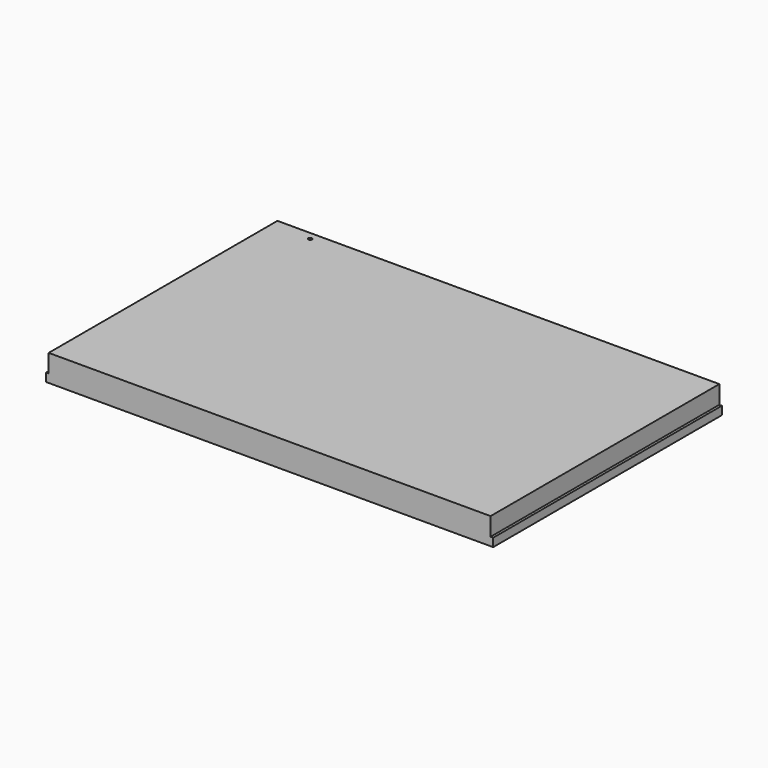
from build123d import *

# Parameters (mm, degrees)
F0_W     = 86
F0_H     = 55
F0_R     = 0.35
F1_DEPTH = 1.6
F2_W     = 85
F2_H     = 55
F2_R     = 0.35
F3_DEPTH = 5.1


with BuildPart() as f1:
    # F0 (on Top) → F1 (new body)
    with BuildSketch(Plane.XY):
        Rectangle(F0_W, F0_H)
        with Locations((-35, 26)):
            Circle(F0_R, mode=Mode.SUBTRACT)
    extrude(amount=F1_DEPTH)

    # F2 (on face) → F3 (join)
    with BuildSketch(Plane(origin=(0, 0, 0), x_dir=(1, 0, 0), z_dir=(0, 0, -1))):
        Rectangle(F2_W, F2_H)
        with Locations((-35, -26)):
            Circle(F2_R, mode=Mode.SUBTRACT)
    extrude(amount=-F3_DEPTH)


solid = f1.part
